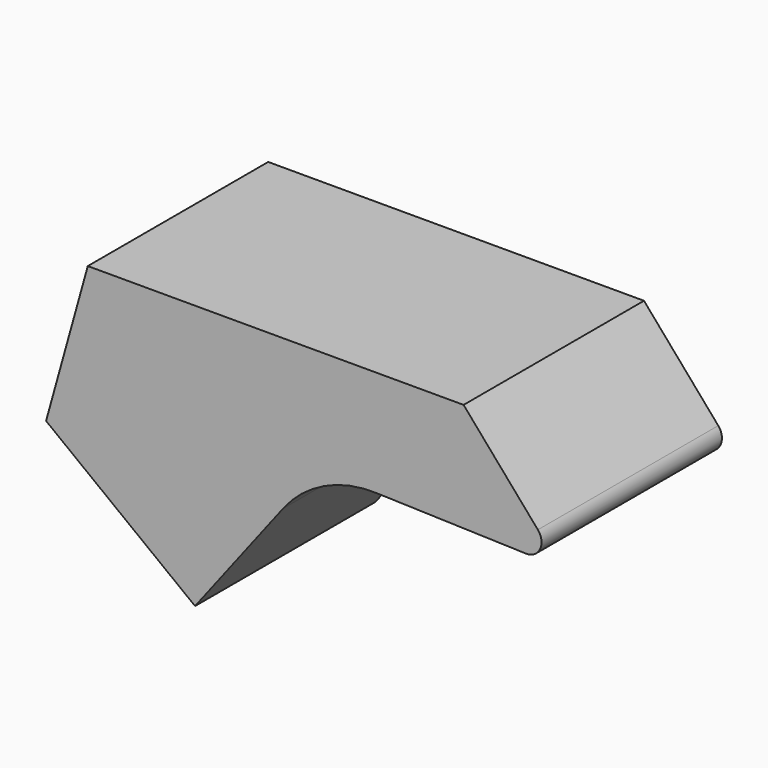
from build123d import *

# Parameters (mm, degrees)
F1_DEPTH = 76.2


with BuildPart() as f1:
    # F0 (on Front) → F1 (new body)
    with BuildSketch(Plane.XZ):
        with BuildLine():
            Line((152.096405, -28.985455), (127, 0))
            Line((127, 0), (0, 0))
            Line((0, 0), (-14.094228, -50.661936))
            Line((-14.094228, -50.661936), (36.245754, -89.3677))
            Line((36.245754, -89.3677), (66.01068, -50.656003))
            ThreePointArc((66.01068, -50.656003), (79.918176, -39.440612), (97.409209, -35.798192))
            Line((97.409209, -35.798192), (148.096638, -37.388164))
            ThreePointArc((148.096638, -37.388164), (152.842764, -34.494047), (152.096405, -28.985455))
        make_face()
    extrude(amount=F1_DEPTH)


solid = f1.part
